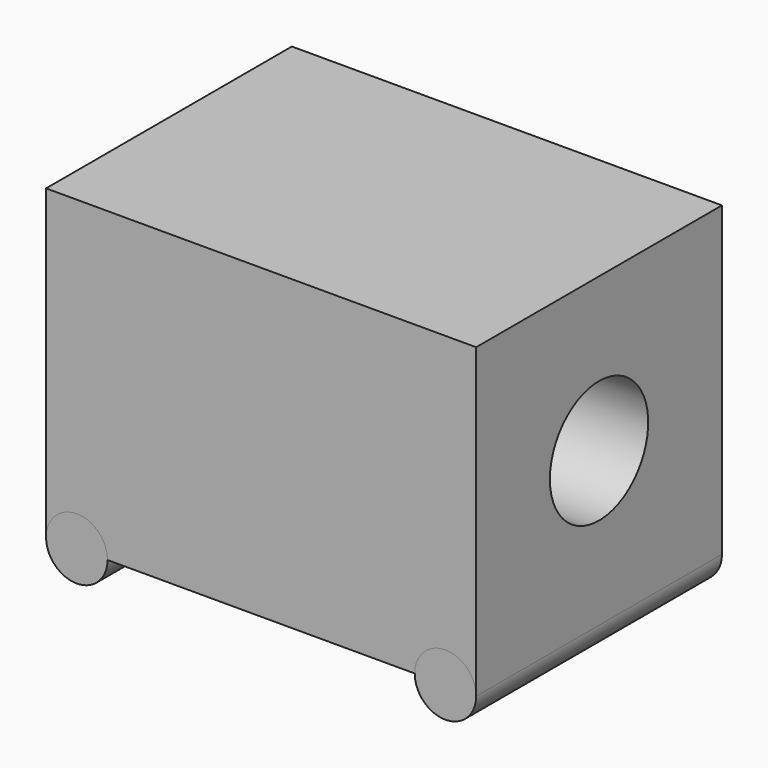
from build123d import *

# Parameters (mm, degrees)
F0_W     = 70
F0_H     = 50
F1_DEPTH = 50
F2_R     = 5
F3_DEPTH = 50
F4_R     = 10
F5_DEPTH = 70.001


with BuildPart() as f1:
    # F0 (on Front) → F1 (new body)
    with BuildSketch(Plane.XZ):
        with Locations((34.999998, 25)):
            Rectangle(F0_W, F0_H)
    extrude(amount=F1_DEPTH)

    # F4 (on face) → F5 (cut, through all)
    with BuildSketch(Plane(origin=(-2e-06, 0, 0), x_dir=(0, -1, 0), z_dir=(-1, 0, 0))):
        with Locations((25, 25)):
            Circle(F4_R)
    extrude(amount=-F5_DEPTH, mode=Mode.SUBTRACT)


with BuildPart() as f3:
    # F2 (on face) → F3 (new body)
    with BuildSketch(Plane.XZ.offset(50)):
        with Locations((5, 0)):
            Circle(F2_R)
        with Locations((64.999995, 0)):
            Circle(F2_R)
    extrude(amount=-F3_DEPTH)


solid = Compound([f1.part, f3.part])
